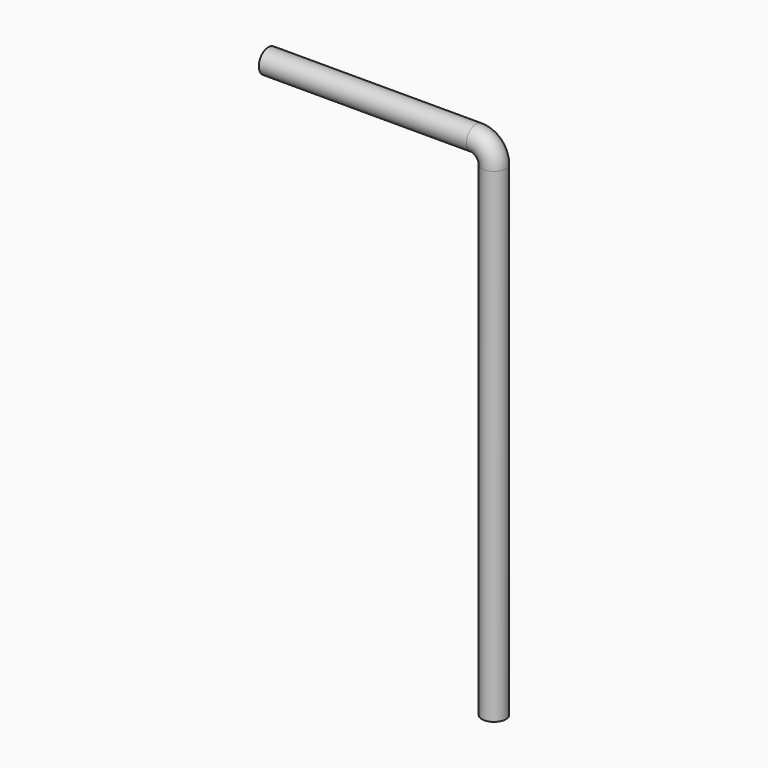
from build123d import *

# Parameters (mm, degrees)
F0_R     = 26.2509
F3_DEPTH = 457.2
F4_DEPTH = 1066.8


with BuildPart() as f2:
    # F2: sweep along a path in F1
    with BuildLine(Plane.XZ) as f2_path:
        ThreePointArc((0, 0), (27.8387939753, -11.5312060247), (39.37, -39.37))
    # F0 (on Right) → F2 (sweep)
    with BuildSketch(Plane.YZ):
        Circle(F0_R)
    sweep(path=f2_path.line)

    # F3 (add): a face of the model
    f3_faces = [f2.faces().sort_by_distance(p)[0] for p in [
        (0, 0, 0),
    ]]
    extrude(f3_faces, amount=F3_DEPTH)

    # F4 (add): a face of the model
    f4_faces = [f2.faces().sort_by_distance(p)[0] for p in [
        (39.37, 0, -39.37),
    ]]
    extrude(f4_faces, amount=F4_DEPTH)


solid = f2.part
